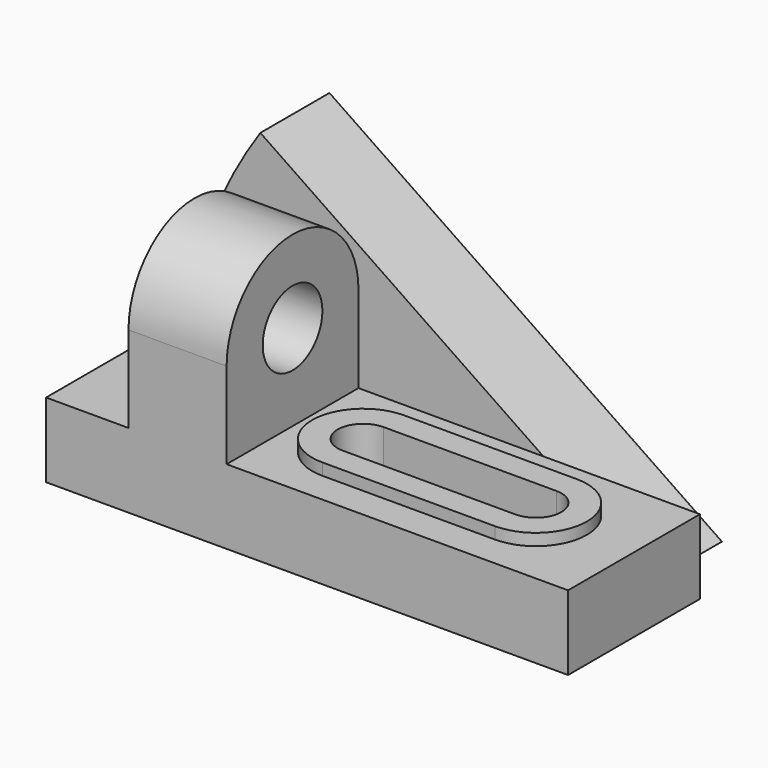
from build123d import *

# Parameters (mm, degrees)
F0_W      = 42
F0_H      = 19
F1_DEPTH  = 133
F2_DEPTH  = 25
F3_W      = 21
F3_H      = 42
F4_DEPTH  = 19
F5_R      = 9.5
F6_DEPTH  = 46.001
F7_W      = 21
F7_H      = 42
F8_DEPTH  = 19.001
F10_DEPTH = 3
F11_DEPTH = 19.001
F13_DEPTH = 22


with BuildPart() as f1:
    # F0 (on Right) → F1 (new body)
    with BuildSketch(Plane.YZ):
        with Locations((21, 9.5)):
            Rectangle(F0_W, F0_H)
    extrude(amount=F1_DEPTH)

    # F0 (on Right) → F2 (join)
    with BuildSketch(Plane.YZ):
        with BuildLine():
            Line((0, 41), (0, 19))
            Line((0, 19), (42, 19))
            Line((42, 19), (42, 41))
            ThreePointArc((42, 41), (21, 62), (0, 41))
        make_face()
    extrude(amount=F2_DEPTH)

    # F3 (on face) → F4 (join)
    with BuildSketch(Plane.XY.offset(19)):
        with Locations((-10.5, 21)):
            Rectangle(F3_W, F3_H)
    extrude(amount=-F4_DEPTH)

    # F5 (on face) → F6 (cut, through all)
    with BuildSketch(Plane.YZ.offset(25)):
        with Locations((21, 41)):
            Circle(F5_R)
    extrude(amount=-F6_DEPTH, mode=Mode.SUBTRACT)

    # F7 (on face) → F8 (cut, through all)
    with BuildSketch(Plane.XY.offset(19)):
        with Locations((122.5, 21)):
            Rectangle(F7_W, F7_H)
    extrude(amount=-F8_DEPTH, mode=Mode.SUBTRACT)

    # F9 (on face) → F10 (join)
    with BuildSketch(Plane.XY.offset(19)):
        with BuildLine():
            Line((87, 34), (43, 34))
            ThreePointArc((43, 34), (30, 21), (43, 8))
            Line((43, 8), (87, 8))
            ThreePointArc((87, 8), (100, 21), (87, 34))
        make_face()
        with BuildLine():
            ThreePointArc((43, 14.5), (36.5, 21), (43, 27.5))
            Line((43, 27.5), (87, 27.5))
            ThreePointArc((87, 27.5), (93.5, 21), (87, 14.5))
            Line((87, 14.5), (43, 14.5))
        make_face(mode=Mode.SUBTRACT)
    extrude(amount=F10_DEPTH)

    # F9 (on face) → F11 (cut, through all)
    with BuildSketch(Plane.XY.offset(19)):
        with BuildLine():
            Line((87, 27.5), (43, 27.5))
            ThreePointArc((43, 27.5), (36.5, 21), (43, 14.5))
            Line((43, 14.5), (87, 14.5))
            ThreePointArc((87, 14.5), (93.5, 21), (87, 27.5))
        make_face()
    extrude(amount=-F11_DEPTH, mode=Mode.SUBTRACT)

    # F12 (on face) → F13 (join)
    with BuildSketch(Plane(origin=(0, 42, 0), x_dir=(-1, 0, 0), z_dir=(0, 1, 0))):
        with BuildLine():
            Line((-100, 0), (21, 0))
            ThreePointArc((21, 0), (15.630878, 35.644074), (0, 68.124885))
            Line((0, 68.124885), (-100, 0))
        make_face()
    extrude(amount=F13_DEPTH)


solid = f1.part
